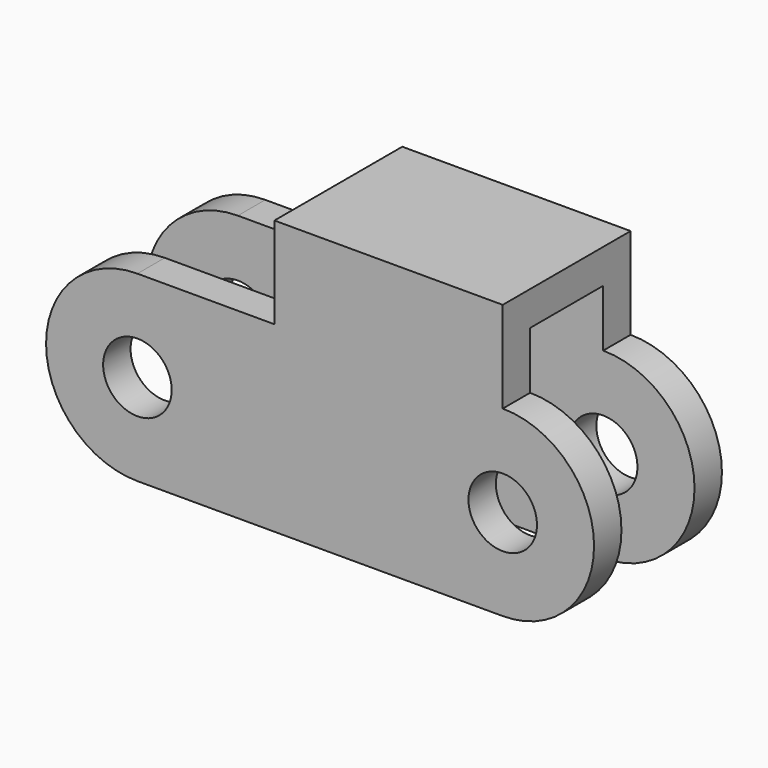
from build123d import *

# Parameters (mm, degrees)
F0_R     = 3
F0_W     = 20
F0_H     = 8
F1_DEPTH = 7
F2_W     = 8
F2_H     = 26
F3_DEPTH = 50.02777


with BuildPart() as f1:
    # F0 (on Front) → F1 (new body, symmetric)
    with BuildSketch(Plane.XZ):
        with BuildLine():
            Line((-32, -8), (0, -8))
            ThreePointArc((0, -8), (8, 0), (0, 8))
            Line((0, 8), (-20, 8))
            Line((-20, 8), (-32, 8))
            ThreePointArc((-32, 8), (-40, 0), (-32, -8))
        make_face()
        with Locations((-32, 0)):
            Circle(F0_R, mode=Mode.SUBTRACT)
        with BuildLine():
            ThreePointArc((3, 0), (0, -3), (-3, 0))
            ThreePointArc((-3, 0), (0, 3), (3, 0))
        make_face(mode=Mode.SUBTRACT)
        with Locations((-10, 12)):
            Rectangle(F0_W, F0_H)
    extrude(amount=F1_DEPTH, both=True)

    # F2 (on Right) → F3 (cut, symmetric)
    with BuildSketch(Plane.YZ):
        Rectangle(F2_W, F2_H)
    extrude(amount=F3_DEPTH, both=True, mode=Mode.SUBTRACT)


solid = f1.part
